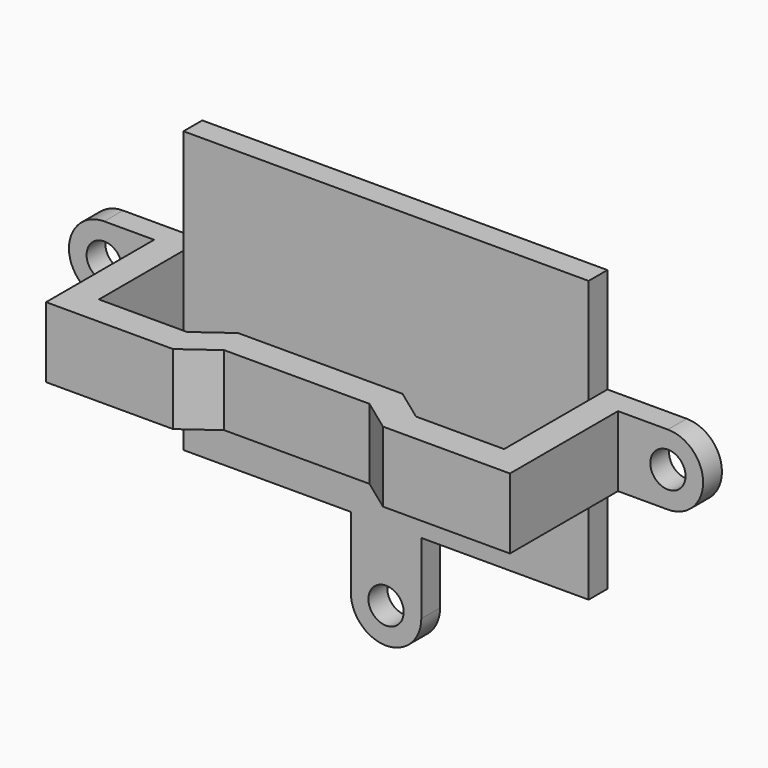
from build123d import *

# Parameters (mm, degrees)
F0_R     = 1.5
F1_DEPTH = 2
F2_W     = 2.5
F2_H     = 6
F3_DEPTH = 9
F5_DEPTH = 3


with BuildPart() as f1:
    # F0 (on Front) → F1 (new body)
    with BuildSketch(Plane.XZ):
        with BuildLine():
            Line((3, -11.95), (17.25, -11.95))
            Line((17.25, -11.95), (17.25, -3))
            Line((17.25, -3), (24, -3))
            ThreePointArc((24, -3), (27, 0), (24, 3))
            Line((24, 3), (17.25, 3))
            Line((17.25, 3), (17.25, 11.95))
            Line((17.25, 11.95), (-17.25, 11.95))
            Line((-17.25, 11.95), (-17.25, 3))
            Line((-17.25, 3), (-24, 3))
            ThreePointArc((-24, 3), (-27, 0), (-24, -3))
            Line((-24, -3), (-17.25, -3))
            Line((-17.25, -3), (-17.25, -11.95))
            Line((-17.25, -11.95), (-3, -11.95))
            Line((-3, -11.95), (-3, -18))
            ThreePointArc((-3, -18), (0, -21), (3, -18))
            Line((3, -18), (3, -11.95))
        make_face()
        with Locations((0, -18)):
            Circle(F0_R, mode=Mode.SUBTRACT)
        with Locations((-24, 0)):
            Circle(F0_R, mode=Mode.SUBTRACT)
        with Locations((24, 0)):
            Circle(F0_R, mode=Mode.SUBTRACT)
    extrude(amount=F1_DEPTH)

    # F2 (on face) → F3 (join)
    with BuildSketch(Plane.XZ.offset(2)):
        with Locations((-18.5, 0)):
            Rectangle(F2_W, F2_H)
        with Locations((18.5, 0)):
            Rectangle(F2_W, F2_H)
    extrude(amount=F3_DEPTH)

    # F4 (on Top) → F5 (join, symmetric)
    with BuildSketch(Plane.XY):
        Polygon((-9.75, -11), (-19.75, -11), (-19.75, -13.5), (-8.93704, -13.5), (-6.18704, -11.5), (0, -11.5), (6.18704, -11.5), (8.93704, -13.5), (19.75, -13.5), (19.75, -11), (9.75, -11), (7, -9), (0, -9), (-7, -9), align=None)
    extrude(amount=F5_DEPTH, both=True)


solid = f1.part
